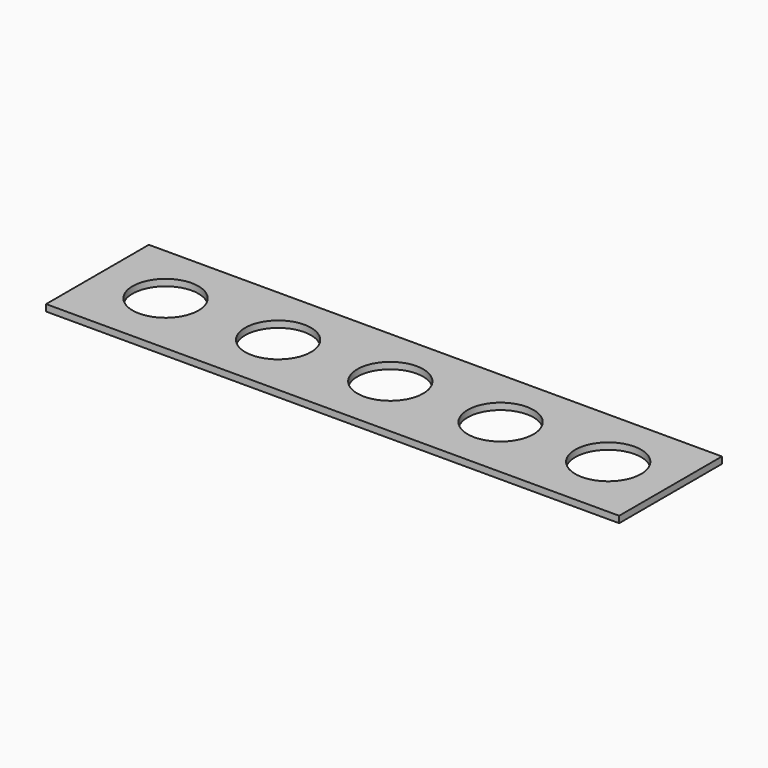
from build123d import *

# Parameters (mm, degrees)
SKETCH167_R      = 10
EXTRUDE147_DEPTH = 4
BODY018_W        = 39
BODY018_H        = 174
EXTRUDE_DEPTH    = 2


with BuildPart() as extrude147:
    # Sketch167 → Extrude147 (new body)
    with BuildSketch(Plane.XY.offset(29)):
        with Locations((211.272537, 288)):
            Circle(SKETCH167_R)
        with Locations((245.453842, 288)):
            Circle(SKETCH167_R)
        with Locations((279.504333, 288)):
            Circle(SKETCH167_R)
        with Locations((345.672821, 288)):
            Circle(SKETCH167_R)
        with Locations((313, 288)):
            Circle(SKETCH167_R)
    extrude(amount=-EXTRUDE147_DEPTH)


with BuildPart() as cut010:
    # Body018 → Extrude (new body)
    with BuildSketch(Plane(origin=(278, 287.5, 26), x_dir=(0, -1, 0), z_dir=(0, 0, -1))):
        Rectangle(BODY018_W, BODY018_H)
    extrude(amount=-EXTRUDE_DEPTH)

    # Cut010: cut Extrude147
    add(extrude147.part, mode=Mode.SUBTRACT)


solid = cut010.part
